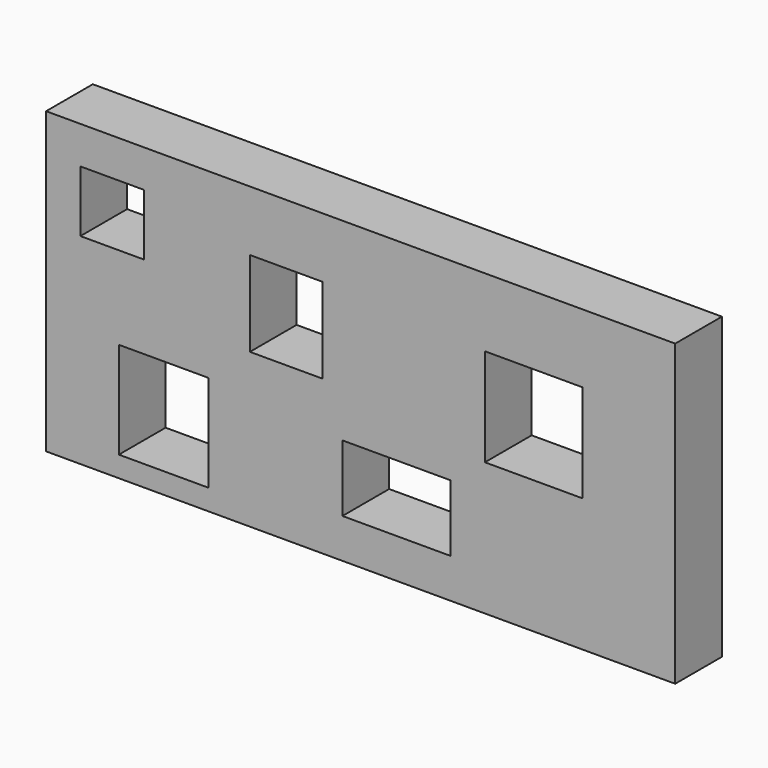
from build123d import *

# Parameters (mm, degrees)
F0_W     = 273.6599
F0_H     = 130.27117
F0_W_2   = 38.90042
F0_H_2   = 42.066727
F0_W_3   = 47.042365
F0_H_3   = 28.949149
F0_W_4   = 31.663131
F0_H_4   = 37.091095
F0_W_5   = 27.592152
F0_H_5   = 26.687497
F0_W_6   = 42.519059
F0_H_6   = 42.519063
F1_DEPTH = 25.4


with BuildPart() as f1:
    # F0 (on Front) → F1 (new body)
    with BuildSketch(Plane.XZ):
        with Locations((-2.035491, -16.283898)):
            Rectangle(F0_W, F0_H)
        with Locations((-87.752104, -51.339505)):
            Rectangle(F0_W_2, F0_H_2, mode=Mode.SUBTRACT)
        with Locations((13.569912, -49.756351)):
            Rectangle(F0_W_3, F0_H_3, mode=Mode.SUBTRACT)
        with Locations((-34.377114, 4.070974)):
            Rectangle(F0_W_4, F0_H_4, mode=Mode.SUBTRACT)
        with Locations((-110.142462, 19.224043)):
            Rectangle(F0_W_5, F0_H_5, mode=Mode.SUBTRACT)
        with Locations((73.277535, -2.261653)):
            Rectangle(F0_W_6, F0_H_6, mode=Mode.SUBTRACT)
    extrude(amount=F1_DEPTH)


solid = f1.part
